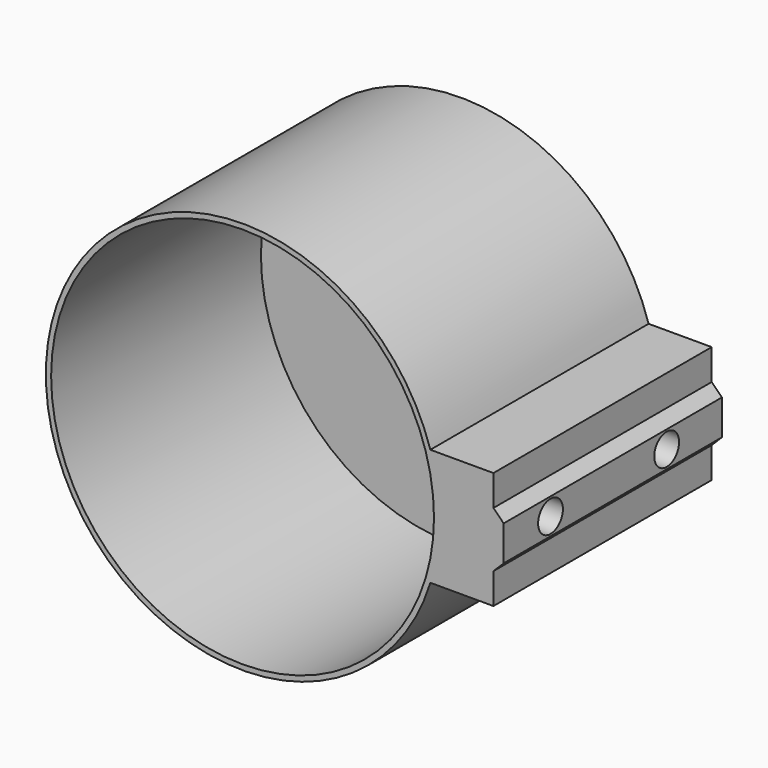
from build123d import *

# Parameters (mm, degrees)
F1_R     = 32.7
F1_R_2   = 5
F2_DEPTH = 1.8
F0_R     = 32.7
F3_DEPTH = 46.6
F4_R     = 2.65
F5_DEPTH = 44.601471
F6_R     = 5.5
F7_DEPTH = 39.6


with BuildPart() as f2:
    # F1 (on Front) → F2 (new body)
    with BuildSketch(Plane.XZ):
        Circle(F1_R)
        Circle(F1_R_2, mode=Mode.SUBTRACT)
    extrude(amount=F2_DEPTH)

    # F0 (on Front) → F3 (join)
    with BuildSketch(Plane.XZ):
        with BuildLine():
            ThreePointArc((32.077406, -10), (33.217171, -5.057625), (33.6, 0))
            ThreePointArc((33.6, 0), (33.217171, 5.057625), (32.077406, 10))
            ThreePointArc((32.077406, 10), (-33.6, 0), (32.077406, -10))
        make_face()
        Circle(F0_R, mode=Mode.SUBTRACT)
        with BuildLine():
            Line((42.851, 0), (33.6, 0))
            ThreePointArc((33.6, 0), (33.217171, -5.057625), (32.077406, -10))
            Line((32.077406, -10), (42.851, -10))
            Line((42.851, -10), (42.851, -4.75))
            Line((42.851, -4.75), (42.851, 0))
        make_face()
        with BuildLine():
            ThreePointArc((32.077406, 10), (33.217171, 5.057625), (33.6, 0))
            Line((33.6, 0), (42.851, 0))
            Line((42.851, 0), (42.851, 4.75))
            Line((42.851, 4.75), (42.851, 10))
            Line((42.851, 10), (32.077406, 10))
        make_face()
        Polygon((42.851, 4.75), (42.851, 0), (42.851, -4.75), (44.600471, -3), (44.600471, 3), align=None)
    extrude(amount=F3_DEPTH)

    # F4 (on Right) → F5 (cut, through all)
    with BuildSketch(Plane.YZ):
        with Locations((-11.8, 0)):
            Circle(F4_R)
        with Locations((-36.6, 0)):
            Circle(F4_R)
    extrude(amount=F5_DEPTH, mode=Mode.SUBTRACT)

    # F6 (on Right) → F7 (cut)
    with BuildSketch(Plane.YZ):
        with Locations((-11.8, 0)):
            Circle(F6_R)
        with Locations((-36.6, 0)):
            Circle(F6_R)
    extrude(amount=F7_DEPTH, mode=Mode.SUBTRACT)


solid = f2.part
